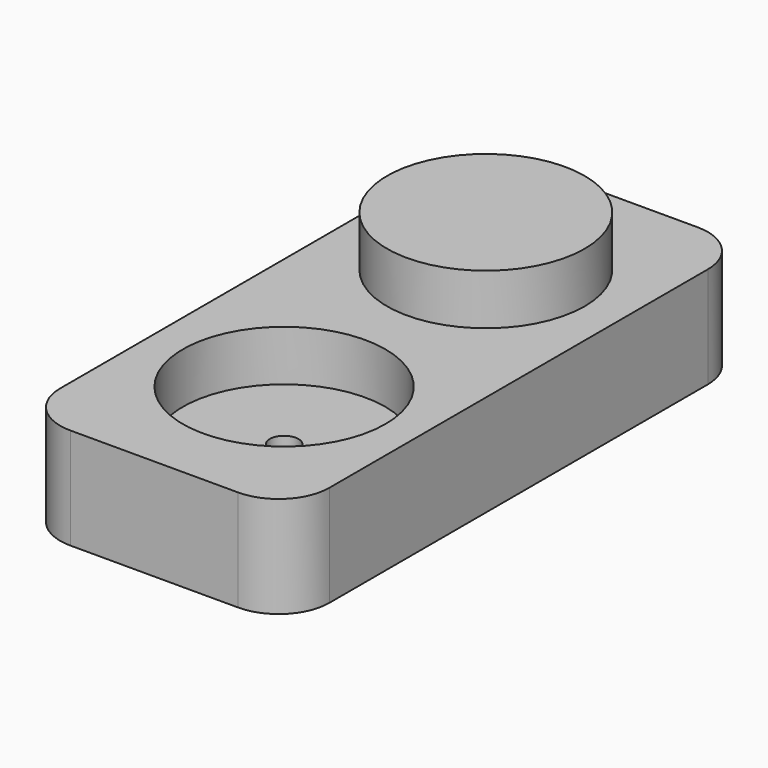
from build123d import *

# Parameters (mm, degrees)
F0_W     = 67.47918
F0_H     = 143.993221
F1_DEPTH = 12.7
F2_R     = 12.7
F3_R     = 25.4
F4_DEPTH = 12.7
F5_R     = 3.592793
F6_DEPTH = 12.7
F7_R     = 24.765
F8_DEPTH = 12.7


with BuildPart() as f1:
    # F0 (on Top) → F1 (new body, symmetric)
    with BuildSketch(Plane.XY):
        with Locations((-37.244237, -1.34131)):
            Rectangle(F0_W, F0_H)
    extrude(amount=F1_DEPTH, both=True)

    # F2
    f2_edges = [f1.edges().sort_by_distance(p)[0] for p in [
        (-70.983827, -73.33792, 0),
        (-3.504647, -73.33792, 0),
        (-3.504647, 70.655301, 0),
        (-70.983827, 70.655301, 0),
    ]]
    fillet(f2_edges, radius=F2_R)

    # F3 (on face) → F4 (cut)
    with BuildSketch(Plane.XY.offset(12.7)):
        with Locations((-37.201827, -32.69792)):
            Circle(F3_R)
    extrude(amount=-F4_DEPTH, mode=Mode.SUBTRACT)

    # F5 (on face) → F6 (cut, through all)
    with BuildSketch(Plane.XY):
        with Locations((-37.201827, -32.69792)):
            Circle(F5_R)
    extrude(amount=-F6_DEPTH, mode=Mode.SUBTRACT)

    # F7 (on face) → F8 (join)
    with BuildSketch(Plane.XY.offset(12.7)):
        with Locations((-37.304053, 30.650346)):
            Circle(F7_R)
    extrude(amount=F8_DEPTH)


solid = f1.part
